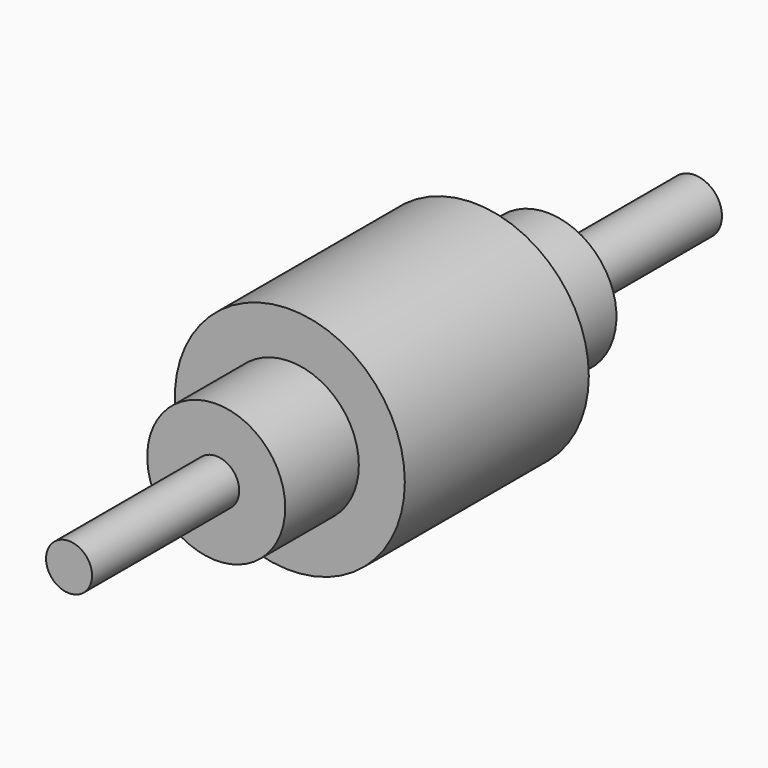
from build123d import *

# Parameters (mm, degrees)
F0_R      = 50
F1_DEPTH  = 40
F1_FACE_R = 50
F2_DEPTH  = 60
F3_R      = 30
F4_DEPTH  = 40
F5_R      = 10
F6_DEPTH  = 80
F7_R      = 30
F8_DEPTH  = 40
F9_R      = 11.8892
F10_DEPTH = 80


with BuildPart() as f1:
    # F0 (on Front) → F1 (new body)
    with BuildSketch(Plane.XZ):
        Circle(F0_R)
    extrude(amount=F1_DEPTH)

    # F1_face (on face) → F2 (join)
    with BuildSketch(Plane.XZ.offset(40)):
        Circle(F1_FACE_R)
    extrude(amount=F2_DEPTH)

    # F3 (on face) → F4 (join)
    with BuildSketch(Plane.XZ.offset(100)):
        Circle(F3_R)
    extrude(amount=F4_DEPTH)

    # F5 (on face) → F6 (join)
    with BuildSketch(Plane.XZ.offset(140)):
        Circle(F5_R)
    extrude(amount=F6_DEPTH)

    # F7 (on face) → F8 (join)
    with BuildSketch(Plane(origin=(0, 0, 0), x_dir=(-1, 0, 0), z_dir=(0, 1, 0))):
        Circle(F7_R)
    extrude(amount=F8_DEPTH)

    # F9 (on face) → F10 (join)
    with BuildSketch(Plane(origin=(0, 40, 0), x_dir=(-1, 0, 0), z_dir=(0, 1, 0))):
        Circle(F9_R)
    extrude(amount=F10_DEPTH)


solid = f1.part
